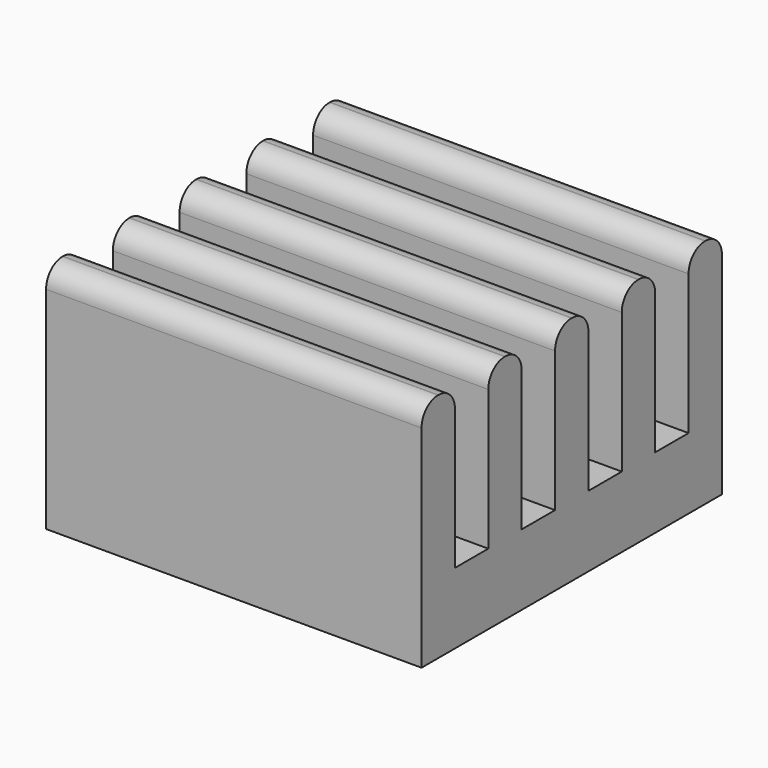
from build123d import *

# Parameters (mm, degrees)
BOX085026_W          = 9
BOX085026_H          = 1
BOX085026_DEPTH      = 3.85
FILLET005011017017_R = 0.49
BOX085027_W          = 9
BOX085027_H          = 1
BOX085027_DEPTH      = 3.85
FILLET005011017018_R = 0.49
BOX085028_W          = 9
BOX085028_H          = 1
BOX085028_DEPTH      = 3.85
FILLET005011017019_R = 0.49
BOX085029_W          = 9
BOX085029_H          = 1
BOX085029_DEPTH      = 3.85
FILLET005011017020_R = 0.49
BOX085030_W          = 9
BOX085030_H          = 1
BOX085030_DEPTH      = 3.85
FILLET005011017021_R = 0.49
BOX085025_W          = 9
BOX085025_H          = 9
BOX085025_DEPTH      = 1.7


with BuildPart() as fillet005011017017:
    # Box085026 → Box085026 (new body)
    with BuildSketch(Plane(origin=(25.897, 21.115, 10), x_dir=(1, 0, 0), z_dir=(0, 0, 1))):
        with Locations((4.5, 0.5)):
            Rectangle(BOX085026_W, BOX085026_H)
    extrude(amount=BOX085026_DEPTH)

    # Fillet005011017017
    fillet005011017017_edges = [fillet005011017017.edges().sort_by_distance(p)[0] for p in [
        (30.397, 21.115, 13.85),
        (30.397, 22.115, 13.85),
    ]]
    fillet(fillet005011017017_edges, radius=FILLET005011017017_R)


with BuildPart() as fillet005011017018:
    # Box085027 → Box085027 (new body)
    with BuildSketch(Plane(origin=(25.897, 21.115, 10), x_dir=(1, 0, 0), z_dir=(0, 0, 1))):
        with Locations((4.5, 0.5)):
            Rectangle(BOX085027_W, BOX085027_H)
    extrude(amount=BOX085027_DEPTH)

    # Fillet005011017018
    fillet005011017018_edges = [fillet005011017018.edges().sort_by_distance(p)[0] for p in [
        (30.397, 21.115, 13.85),
        (30.397, 22.115, 13.85),
    ]]
    fillet(fillet005011017018_edges, radius=FILLET005011017018_R)


with BuildPart() as fillet005011017018_1:
    # Fillet005011017018 placement: moved
    add(fillet005011017018.part.moved(Location((0, 2, 0))))


with BuildPart() as fillet005011017019:
    # Box085028 → Box085028 (new body)
    with BuildSketch(Plane(origin=(25.897, 21.115, 10), x_dir=(1, 0, 0), z_dir=(0, 0, 1))):
        with Locations((4.5, 0.5)):
            Rectangle(BOX085028_W, BOX085028_H)
    extrude(amount=BOX085028_DEPTH)

    # Fillet005011017019
    fillet005011017019_edges = [fillet005011017019.edges().sort_by_distance(p)[0] for p in [
        (30.397, 21.115, 13.85),
        (30.397, 22.115, 13.85),
    ]]
    fillet(fillet005011017019_edges, radius=FILLET005011017019_R)


with BuildPart() as fillet005011017019_1:
    # Fillet005011017019 placement: moved
    add(fillet005011017019.part.moved(Location((0, 4, 0))))


with BuildPart() as fillet005011017020:
    # Box085029 → Box085029 (new body)
    with BuildSketch(Plane(origin=(25.897, 21.115, 10), x_dir=(1, 0, 0), z_dir=(0, 0, 1))):
        with Locations((4.5, 0.5)):
            Rectangle(BOX085029_W, BOX085029_H)
    extrude(amount=BOX085029_DEPTH)

    # Fillet005011017020
    fillet005011017020_edges = [fillet005011017020.edges().sort_by_distance(p)[0] for p in [
        (30.397, 21.115, 13.85),
        (30.397, 22.115, 13.85),
    ]]
    fillet(fillet005011017020_edges, radius=FILLET005011017020_R)


with BuildPart() as fillet005011017020_1:
    # Fillet005011017020 placement: moved
    add(fillet005011017020.part.moved(Location((0, 6, 0))))


with BuildPart() as fillet005011017021:
    # Box085030 → Box085030 (new body)
    with BuildSketch(Plane(origin=(25.897, 21.115, 10), x_dir=(1, 0, 0), z_dir=(0, 0, 1))):
        with Locations((4.5, 0.5)):
            Rectangle(BOX085030_W, BOX085030_H)
    extrude(amount=BOX085030_DEPTH)

    # Fillet005011017021
    fillet005011017021_edges = [fillet005011017021.edges().sort_by_distance(p)[0] for p in [
        (30.397, 21.115, 13.85),
        (30.397, 22.115, 13.85),
    ]]
    fillet(fillet005011017021_edges, radius=FILLET005011017021_R)


with BuildPart() as fillet005011017021_1:
    # Fillet005011017021 placement: moved
    add(fillet005011017021.part.moved(Location((0, 8, 0))))


with BuildPart() as obj1:
    # Box085025 → Box085025 (new body)
    with BuildSketch(Plane(origin=(25.897, 21.115, 8.3), x_dir=(1, 0, 0), z_dir=(0, 0, 1))):
        with Locations((4.5, 4.5)):
            Rectangle(BOX085025_W, BOX085025_H)
    extrude(amount=BOX085025_DEPTH)

    # Fusion004008002002002001007002002014: union Fillet005011017017, Fillet005011017018, Fillet005011017019, Fillet005011017020, Fillet005011017021
    add(fillet005011017017.part)
    add(fillet005011017018_1.part)
    add(fillet005011017019_1.part)
    add(fillet005011017020_1.part)
    add(fillet005011017021_1.part)


with BuildPart() as obj1_1:
    # Fusion004008002002002001007002002014 placement: moved
    add(obj1.part.moved(Location((0, 0, -1))))


solid = obj1_1.part
